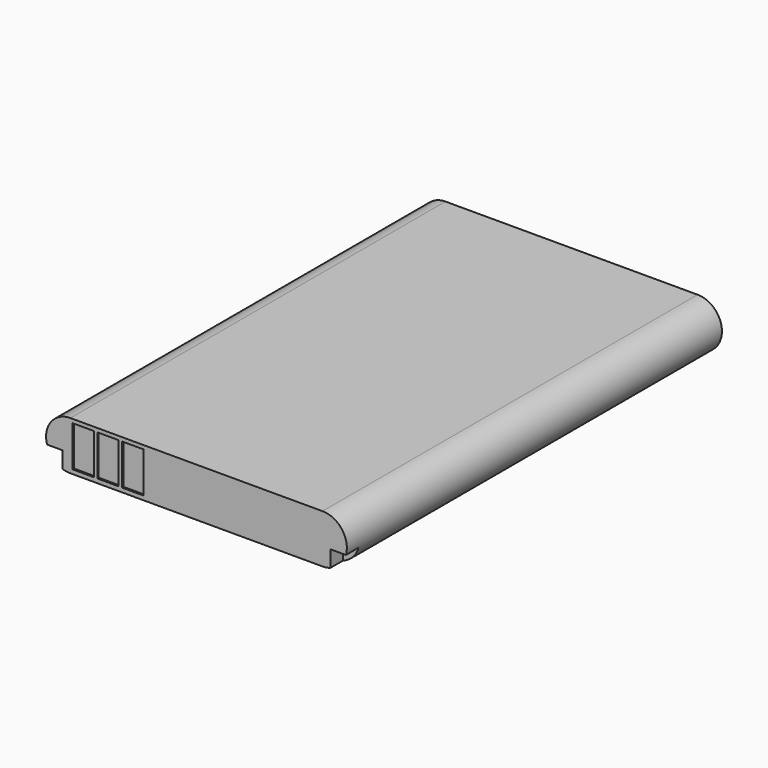
from build123d import *

# Parameters (mm, degrees)
PAD025_DEPTH    = 53
SKETCH054_W     = 1.8
SKETCH054_H     = 1.8
POCKET026_DEPTH = 2
SKETCH119_W     = 2.4
SKETCH119_H     = 4.6
POCKET052_DEPTH = 0.2


with BuildPart() as part:
    # Sketch052 → Pad025 (new body)
    with BuildSketch(Plane.XZ):
        with BuildLine():
            ThreePointArc((-14.414866, 3.546381), (-17.164866, 0.796381), (-14.414866, -1.953619))
            Line((-14.414866, -1.953619), (14.085134, -1.953619))
            ThreePointArc((14.085134, -1.953619), (16.835134, 0.796381), (14.085134, 3.546381))
            Line((-14.414866, 3.546381), (14.085134, 3.546381))
        make_face()
    extrude(amount=PAD025_DEPTH)

    # Sketch054 (on Face2 of Pad025) → Pocket026 (cut)
    with BuildSketch(Plane(origin=(0, 0, -1.953619), x_dir=(1, 0, 0), z_dir=(0, 0, -1))):
        with Locations((-16.201848, 52.106387)):
            Rectangle(SKETCH054_W, SKETCH054_H)
        with Locations((15.881731, 52.106387)):
            Rectangle(SKETCH054_W, SKETCH054_H)
    extrude(amount=-POCKET026_DEPTH, mode=Mode.SUBTRACT)

    # Sketch119 (on Face4 of Pocket026) → Pocket052 (cut)
    with BuildSketch(Plane.XZ.offset(53)):
        with Locations((-12.97, 0.818601)):
            Rectangle(SKETCH119_W, SKETCH119_H)
        with Locations((-10.17, 0.818601)):
            Rectangle(SKETCH119_W, SKETCH119_H)
        with Locations((-7.37, 0.818601)):
            Rectangle(SKETCH119_W, SKETCH119_H)
    extrude(amount=-POCKET052_DEPTH, mode=Mode.SUBTRACT)


with BuildPart() as part_1:
    # Body007 placement: moved
    add(part.part.moved(Location((-0.6, 34, -4.5))))


solid = part_1.part
